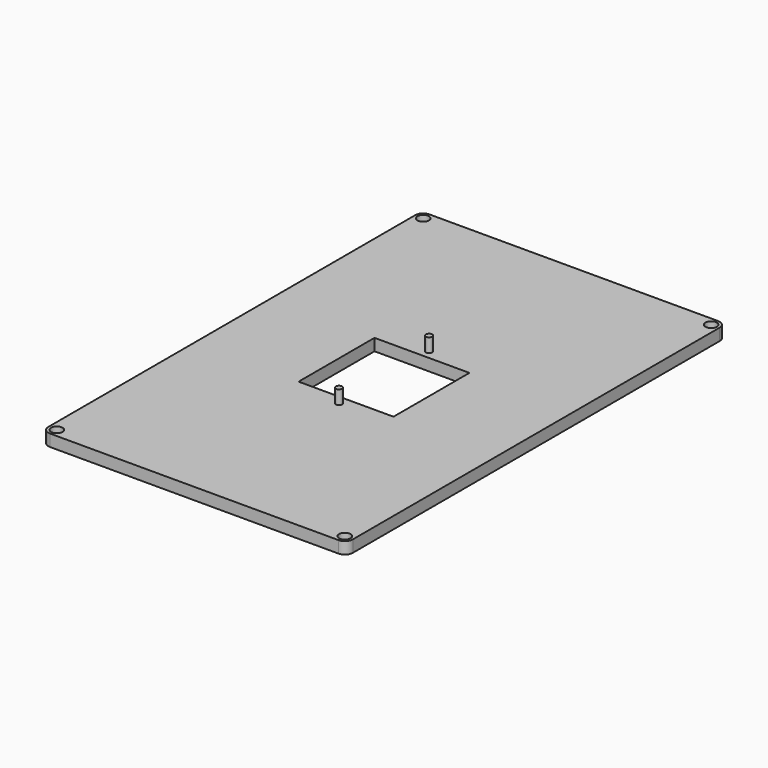
from build123d import *

# Parameters (mm, degrees)
F0_R     = 1.45
F0_W     = 24
F0_H     = 24
F0_R_2   = 0.8
F1_DEPTH = 3
F2_DEPTH = 6.5


with BuildPart() as f1:
    # F0 (on Top) → F1 (new body)
    with BuildSketch(Plane.XY):
        with BuildLine():
            Line((2.331638, 31.849436), (-34.168362, 31.849436))
            ThreePointArc((-34.168362, 31.849436), (-35.582576, 31.26365), (-36.168362, 29.849436))
            Line((-36.168362, 29.849436), (-36.168362, -28.150564))
            Line((-36.168362, -28.150564), (-36.168362, -86.150564))
            ThreePointArc((-36.168362, -86.150564), (-35.582576, -87.564777), (-34.168362, -88.150564))
            Line((-34.168362, -88.150564), (38.831638, -88.150564))
            ThreePointArc((38.831638, -88.150564), (40.245851, -87.564777), (40.831638, -86.150564))
            Line((40.831638, -86.150564), (40.831638, 29.849436))
            ThreePointArc((40.831638, 29.849436), (40.245851, 31.26365), (38.831638, 31.849436))
            Line((38.831638, 31.849436), (2.331638, 31.849436))
        make_face()
        with Locations((-34.082802, -86.065004)):
            Circle(F0_R, mode=Mode.SUBTRACT)
        with Locations((2.331638, -28.150564)):
            Rectangle(F0_W, F0_H, mode=Mode.SUBTRACT)
        with Locations((38.746078, -86.065004)):
            Circle(F0_R, mode=Mode.SUBTRACT)
        with Locations((2.331638, -42.400564)):
            Circle(F0_R_2, mode=Mode.SUBTRACT)
        with Locations((-34.082802, 29.763876)):
            Circle(F0_R, mode=Mode.SUBTRACT)
        with Locations((2.331638, -13.900564)):
            Circle(F0_R_2, mode=Mode.SUBTRACT)
        with Locations((38.746078, 29.763876)):
            Circle(F0_R, mode=Mode.SUBTRACT)
    extrude(amount=F1_DEPTH)

    # F0 (on Top) → F2 (join)
    with BuildSketch(Plane.XY):
        with Locations((2.331638, -13.900564)):
            Circle(F0_R_2)
        with Locations((2.331638, -42.400564)):
            Circle(F0_R_2)
    extrude(amount=F2_DEPTH)


solid = f1.part
